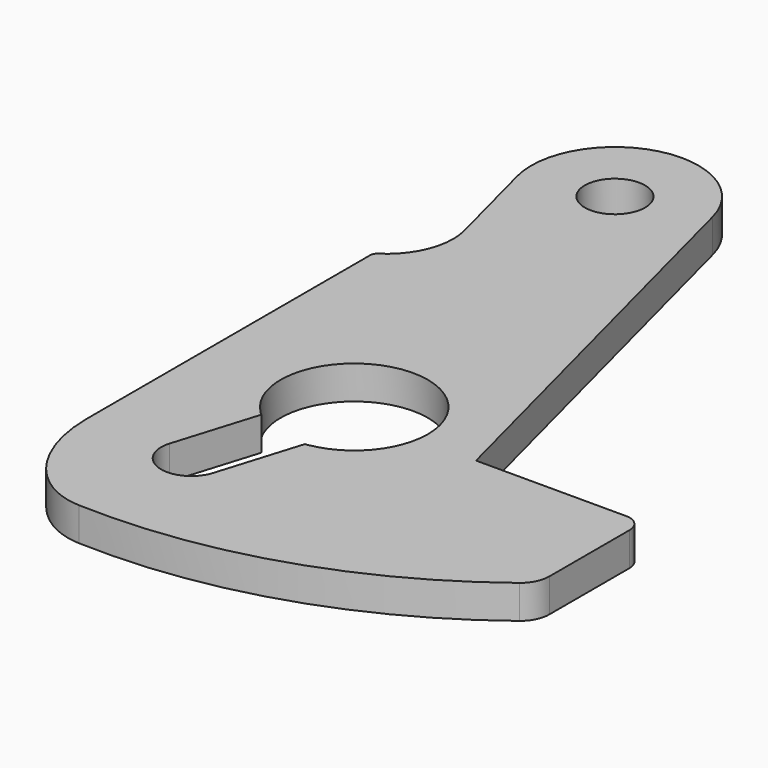
from build123d import *

# Parameters (mm, degrees)
F0_R     = 0.75
F1_DEPTH = 1
F3_DEPTH = 1.0010001
F2_R     = 0.9
F2_R_2   = 0.75
F4_DEPTH = 1.0010001


with BuildPart() as f1:
    # F0 (on Top) → F1 (new body)
    with BuildSketch(Plane.XY):
        with BuildLine():
            Line((8.4099927317, 7.5580001656), (5.0252605515, 20.6268022556))
            ThreePointArc((5.0252605515, 20.6268022556), (1.9783097607, 22.4201485352), (0.1849634811, 19.3731977444))
            Line((0.1849634811, 19.3731977444), (0.9371261878, 16.4690195022))
            ThreePointArc((0.9371261878, 16.4690195022), (0.8653051518, 15.2434273388), (0.0910006691, 14.2907012605))
            ThreePointArc((0.0910006691, 14.2907012605), (0.024216232, 14.2184078876), (0, 14.1230136168))
            Line((0, 14.1230136168), (0, 3.5349456812))
            add(Edge.make_bspline(
                [(0, 3.5349456812), (0, 0.1151861329), (2.5847140193, 0.0126293901)],
                knots=[4.7123889804, 4.7123889804, 4.7123889804, 6.2531913499, 6.2531913499, 6.2531913499], degree=2, weights=[1, 0.717631333, 1]))
            ThreePointArc((2.5847140193, 0.0126293901), (8.1188853822, 0.7647703189), (13.0609901745, 3.3663792197))
            ThreePointArc((13.0609901745, 3.3663792197), (13.3106896342, 3.672880965), (13.4, 4.0580001656))
            Line((13.4, 4.0580001656), (13.4, 7.0580001656))
            ThreePointArc((13.4, 7.0580001656), (13.2535533906, 7.4115535562), (12.9, 7.5580001656))
            Line((12.9, 7.5580001656), (8.4099927317, 7.5580001656))
        make_face()
        with BuildLine():
            ThreePointArc((3.1154618928, 6.4541634531), (5.0869565217, 9.8093739335), (4.8362002383, 5.9259025835))
            Line((4.8362002383, 5.9259025835), (4.0103691728, 3.2358695652))
            ThreePointArc((4.0103691728, 3.2358695652), (2.8858695652, 2.6396308272), (2.2896308272, 3.7641304348))
            Line((2.2896308272, 3.7641304348), (3.1154618928, 6.4541634531))
        make_face(mode=Mode.SUBTRACT)
        with Locations((2.6051120163, 20)):
            Circle(F0_R, mode=Mode.SUBTRACT)
    extrude(amount=F1_DEPTH)

    # F2 (on face) → F3 (cut, through all)
    with BuildSketch(Plane.XY.offset(1)):
        with BuildLine():
            Line((3.1154618928, 6.4541634531), (3.0504773302, 6.2424850283))
            ThreePointArc((3.0504773302, 6.2424850283), (3.8543478261, 5.794317794), (4.7712156757, 5.7142241587))
            Line((4.7712156757, 5.7142241587), (4.8362002383, 5.9259025835))
            ThreePointArc((4.8362002383, 5.9259025835), (4.8920816578, 5.9362509706), (4.9476464888, 5.9481829327))
            Line((4.9476464888, 5.9481829327), (5.4559657475, 7.6039641776))
            ThreePointArc((5.4559657475, 7.6039641776), (4.2065217391, 6.941476691), (3.5440342525, 8.1909206994))
            Line((3.5440342525, 8.1909206994), (3.0357149938, 6.5351394544))
            ThreePointArc((3.0357149938, 6.5351394544), (3.0750131365, 6.4940848793), (3.1154618928, 6.4541634531))
        make_face()
        with BuildLine():
            ThreePointArc((4.8808681557, 5.7306615433), (6.1849198709, 6.4828594509), (6.7, 7.8974424385))
            ThreePointArc((6.7, 7.8974424385), (3.6421944703, 9.9233174774), (2.9689366607, 6.317618065))
            Line((2.9689366607, 6.317618065), (3.0357149938, 6.5351394544))
            ThreePointArc((3.0357149938, 6.5351394544), (5.0869565217, 9.8093739335), (4.9476464888, 5.9481829327))
            Line((4.9476464888, 5.9481829327), (4.8808681557, 5.7306615433))
        make_face()
        with BuildLine():
            ThreePointArc((4.7712156757, 5.7142241587), (4.8261454855, 5.7217519453), (4.8808681557, 5.7306615433))
            Line((4.8808681557, 5.7306615433), (4.9476464888, 5.9481829327))
            ThreePointArc((4.9476464888, 5.9481829327), (4.8920816578, 5.9362509706), (4.8362002383, 5.9259025835))
            Line((4.8362002383, 5.9259025835), (4.7712156757, 5.7142241587))
        make_face()
        with BuildLine():
            Line((3.0357149938, 6.5351394544), (2.9689366607, 6.317618065))
            ThreePointArc((2.9689366607, 6.317618065), (3.0092335922, 6.2795377697), (3.0504773302, 6.2424850283))
            Line((3.0504773302, 6.2424850283), (3.1154618928, 6.4541634531))
            ThreePointArc((3.1154618928, 6.4541634531), (3.0750131365, 6.4940848793), (3.0357149938, 6.5351394544))
        make_face()
        with BuildLine():
            ThreePointArc((4.9476464888, 5.9481829327), (5.0869565217, 9.8093739335), (3.0357149938, 6.5351394544))
            Line((3.0357149938, 6.5351394544), (3.5440342525, 8.1909206994))
            ThreePointArc((3.5440342525, 8.1909206994), (4.6483816911, 8.8863726048), (5.5, 7.8974424385))
            ThreePointArc((5.5, 7.8974424385), (5.4889301663, 7.7490607474), (5.4559657475, 7.6039641776))
            Line((5.4559657475, 7.6039641776), (4.9476464888, 5.9481829327))
        make_face()
    extrude(amount=-F3_DEPTH, mode=Mode.SUBTRACT)

    # F2 (on face) → F4 (cut, through all)
    with BuildSketch(Plane.XY.offset(1)):
        with Locations((2.6051120163, 20)):
            Circle(F2_R)
        with Locations((2.6051120163, 20)):
            Circle(F2_R_2, mode=Mode.SUBTRACT)
    extrude(amount=-F4_DEPTH, mode=Mode.SUBTRACT)


solid = f1.part
